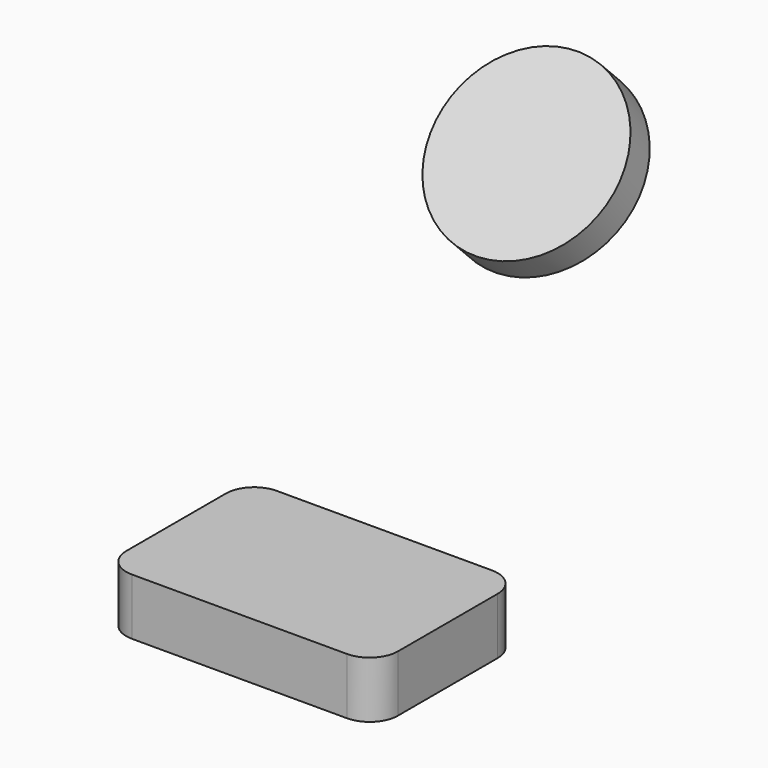
from build123d import *

# Parameters (mm, degrees)
F0_W     = 96
F0_H     = 64
F1_DEPTH = 20
F2_R     = 10
F5_R     = 32
F6_DEPTH = 12


with BuildPart() as f1:
    # F0 (on Top) → F1 (new body)
    with BuildSketch(Plane.XY):
        Rectangle(F0_W, F0_H)
    extrude(amount=F1_DEPTH)

    # F2
    f2_edges = [f1.edges().sort_by_distance(p)[0] for p in [
        (-48, -32, 10),
        (48, -32, 10),
        (48, 32, 10),
        (-48, 32, 10),
    ]]
    fillet(f2_edges, radius=F2_R)


with BuildPart() as f6:
    # F5 (on face) → F6 (new body)
    with BuildSketch(Plane(origin=(0, 0, 0), x_dir=(-1, 0, 0), z_dir=(0, 0.707107, -0.707107))):
        with Locations((0, 146)):
            Circle(F5_R)
    extrude(amount=-F6_DEPTH)


solid = Compound([f1.part, f6.part])
